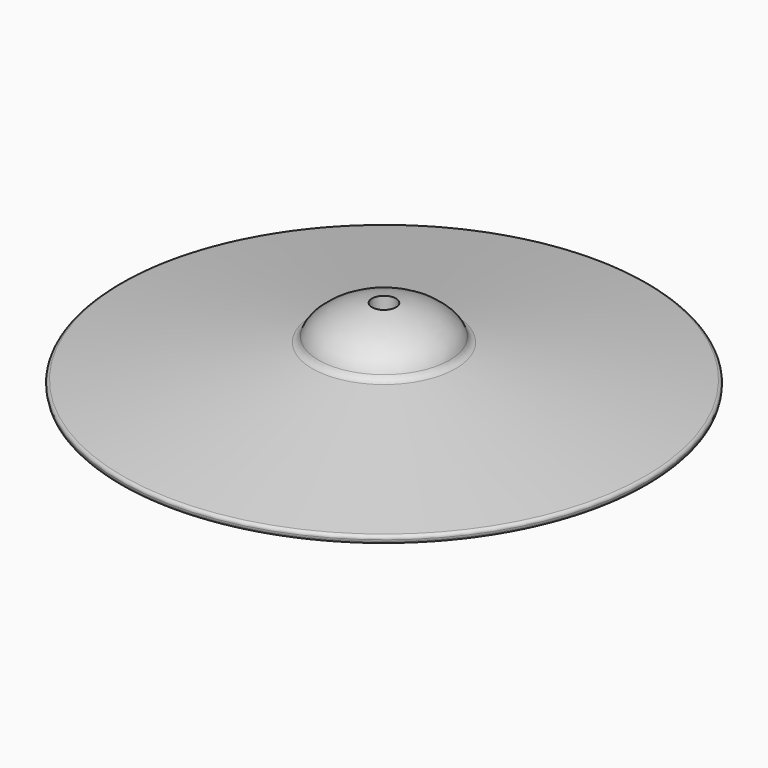
from build123d import *

# Parameters (mm, degrees)
F2_R          = 7.5
F3_DEPTH      = 21.537803
F3_DEPTH_BACK = 26.464197
F4_R          = 2
F5_R          = 5


with BuildPart() as f1:
    # F0 (on Front) → F1 (revolve)
    with BuildSketch(Plane.XZ):
        with BuildLine():
            Line((165.5, -21.536803), (41.375, 0))
            add(Edge.make_bspline(
                [(0, 21.536803), (20.6875, 21.536803), (41.375, 10.768401), (41.375, 0)],
                knots=[0, 0, 0, 0, 46.644662, 46.644662, 46.644662, 46.644662], degree=3))
            Line((0, 21.536803), (0, 2.104229))
            Line((0, 2.104229), (164.645226, -26.463197))
            Line((164.645226, -26.463197), (165.5, -21.536803))
        make_face()
    revolve(axis=Axis((0, 0, -2.463197), (0, 0, -1)))

    # F2 (on Top) → F3 (cut, two sides)
    with BuildSketch(Plane.XY) as f3_sk:
        Circle(F2_R)
    extrude(amount=F3_DEPTH, mode=Mode.SUBTRACT)
    extrude(f3_sk.sketch, amount=-F3_DEPTH_BACK, mode=Mode.SUBTRACT)

    # F4
    f4_edges = [f1.edges().sort_by_distance(p)[0] for p in [
        (-164.645226, 0, -26.463197),
        (-165.5, 0, -21.536803),
    ]]
    fillet(f4_edges, radius=F4_R)

    # F5
    f5_edges = [f1.edges().sort_by_distance(p)[0] for p in [
        (-41.375, 0, 0),
    ]]
    fillet(f5_edges, radius=F5_R)


solid = f1.part
